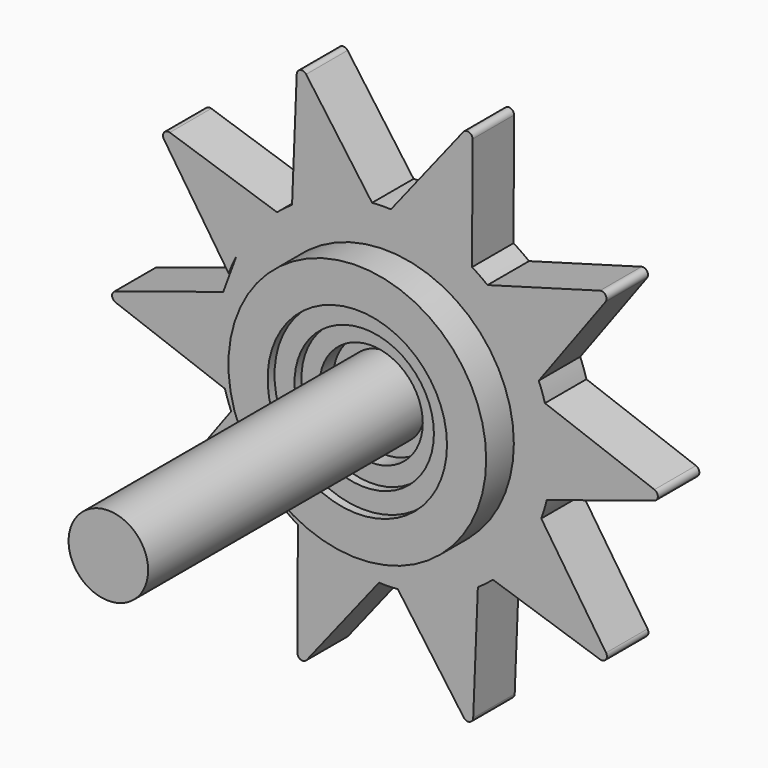
from build123d import *

# Parameters (mm, degrees)
F0_R      = 9.467987
F1_DEPTH  = 3.81
F2_R      = 2.921246
F3_DEPTH  = 25.4
F4_R      = 3.289061
F5_DEPTH  = 6.35
F6_R      = 0.381
F0_R_2    = 6.588266
F7_DEPTH  = 2.54
F0_R_3    = 5.118567
F8_DEPTH  = 1.905
F0_R_4    = 3.793635
F9_DEPTH  = 1.27
F0_R_5    = 2.785674
F10_DEPTH = 4.2926
F11_R     = 2.39152


with BuildPart() as f1:
    # F0 (on Front) → F1 (new body)
    with BuildSketch(Plane.XZ):
        with BuildLine():
            ThreePointArc((11.753054, 3.356683), (12.10494, 1.69471), (12.222995, 0))
            ThreePointArc((12.222995, 0), (12.137491, -1.443232), (11.882175, -2.866272))
            Line((11.882175, -2.866272), (20.8341, 0))
            Line((20.8341, 0), (11.753054, 3.356683))
        make_face()
        with BuildLine():
            ThreePointArc((7.535412, 9.623886), (9.737443, 7.388086), (11.297634, 4.665305))
            Line((11.297634, 4.665305), (16.855141, 12.245976))
            Line((16.855141, 12.245976), (7.535412, 9.623886))
        make_face()
        with BuildLine():
            ThreePointArc((-6.824289, 10.140547), (-4.017452, 11.543903), (-0.945807, 12.186347))
            Line((-0.945807, 12.186347), (-6.438091, 19.814406))
            Line((-6.438091, 19.814406), (-6.824289, 10.140547))
        make_face()
        with BuildLine():
            ThreePointArc((0.439498, 12.215091), (3.535148, 11.700613), (6.397781, 10.414894))
            Line((6.397781, 10.414894), (6.438091, 19.814406))
            Line((6.438091, 19.814406), (0.439498, 12.215091))
        make_face()
        with BuildLine():
            ThreePointArc((-10.889778, 5.551066), (-9.59415, 7.573235), (-7.928129, 9.30303))
            Line((-7.928129, 9.30303), (-16.855141, 12.245976))
            Line((-16.855141, 12.245976), (-11.481429, 4.192659))
            ThreePointArc((-11.481429, 4.192659), (-11.206206, 4.880835), (-10.889778, 5.551066))
        make_face()
        with BuildLine():
            ThreePointArc((-11.753054, -3.356683), (-12.220365, -0.253562), (-11.882175, 2.866272))
            Line((-11.882175, 2.866272), (-20.8341, 0))
            Line((-20.8341, 0), (-11.753054, -3.356683))
        make_face()
        with BuildLine():
            Line((-16.855141, -12.245976), (-7.535412, -9.623886))
            ThreePointArc((-7.535412, -9.623886), (-9.737443, -7.388086), (-11.297634, -4.665305))
            Line((-11.297634, -4.665305), (-16.855141, -12.245976))
        make_face()
        with BuildLine():
            Line((-6.438091, -19.814406), (-0.439498, -12.215091))
            ThreePointArc((-0.439498, -12.215091), (-3.535148, -11.700613), (-6.397781, -10.414894))
            Line((-6.397781, -10.414894), (-6.438091, -19.814406))
        make_face()
        with BuildLine():
            Line((6.438091, -19.814406), (6.824289, -10.140547))
            ThreePointArc((6.824289, -10.140547), (4.017452, -11.543903), (0.945807, -12.186347))
            Line((0.945807, -12.186347), (6.438091, -19.814406))
        make_face()
        with BuildLine():
            Line((16.855141, -12.245976), (11.481429, -4.192659))
            ThreePointArc((11.481429, -4.192659), (10.035523, -6.977814), (7.928129, -9.30303))
            Line((7.928129, -9.30303), (16.855141, -12.245976))
        make_face()
        with BuildLine():
            ThreePointArc((11.882175, -2.866272), (12.137491, -1.443232), (12.222995, 0))
            ThreePointArc((12.222995, 0), (12.10494, 1.69471), (11.753054, 3.356683))
            ThreePointArc((11.753054, 3.356683), (11.543903, 4.017452), (11.297634, 4.665305))
            ThreePointArc((11.297634, 4.665305), (9.737443, 7.388086), (7.535412, 9.623886))
            ThreePointArc((7.535412, 9.623886), (6.977814, 10.035523), (6.397781, 10.414894))
            ThreePointArc((6.397781, 10.414894), (3.535148, 11.700613), (0.439498, 12.215091))
            ThreePointArc((0.439498, 12.215091), (-0.253562, 12.220365), (-0.945807, 12.186347))
            ThreePointArc((-0.945807, 12.186347), (-4.017452, 11.543903), (-6.824289, 10.140547))
            ThreePointArc((-6.824289, 10.140547), (-7.388086, 9.737443), (-7.928129, 9.30303))
            ThreePointArc((-7.928129, 9.30303), (-9.59415, 7.573235), (-10.889778, 5.551066))
            Line((-10.889778, 5.551066), (-11.882175, 2.866272))
            ThreePointArc((-11.882175, 2.866272), (-12.220365, -0.253562), (-11.753054, -3.356683))
            ThreePointArc((-11.753054, -3.356683), (-11.543903, -4.017452), (-11.297634, -4.665305))
            ThreePointArc((-11.297634, -4.665305), (-9.737443, -7.388086), (-7.535412, -9.623886))
            ThreePointArc((-7.535412, -9.623886), (-6.977814, -10.035523), (-6.397781, -10.414894))
            ThreePointArc((-6.397781, -10.414894), (-3.535148, -11.700613), (-0.439498, -12.215091))
            ThreePointArc((-0.439498, -12.215091), (0.253562, -12.220365), (0.945807, -12.186347))
            ThreePointArc((0.945807, -12.186347), (4.017452, -11.543903), (6.824289, -10.140547))
            ThreePointArc((6.824289, -10.140547), (7.388086, -9.737443), (7.928129, -9.30303))
            ThreePointArc((7.928129, -9.30303), (10.035523, -6.977814), (11.481429, -4.192659))
            ThreePointArc((11.481429, -4.192659), (11.700613, -3.535148), (11.882175, -2.866272))
        make_face()
        Circle(F0_R, mode=Mode.SUBTRACT)
    extrude(amount=-F1_DEPTH)

    # F6
    f6_edges = [f1.edges().sort_by_distance(p)[0] for p in [
        (-20.8341, 1.905, 0),
        (-16.855141, 1.905, -12.245976),
        (-6.438091, 1.905, -19.814406),
        (6.438091, 1.905, -19.814406),
        (16.855141, 1.905, -12.245976),
        (20.8341, 1.905, 0),
        (16.855141, 1.905, 12.245976),
        (6.438091, 1.905, 19.814406),
        (-6.438091, 1.905, 19.814406),
        (-16.855141, 1.905, 12.245976),
    ]]
    fillet(f6_edges, radius=F6_R)


with BuildPart() as f3:
    # F2 (on face) → F3 (new body)
    with BuildSketch(Plane.XZ):
        Circle(F2_R)
    extrude(amount=F3_DEPTH)


with BuildPart() as f5:
    # F4 (on face) → F5 (new body)
    with BuildSketch(Plane(origin=(0, 3.81, 0), x_dir=(-1, 0, 0), z_dir=(0, 1, 0))):
        Circle(F4_R)
    extrude(amount=F5_DEPTH)

    # F11
    f11_edges = [f5.edges().sort_by_distance(p)[0] for p in [
        (3.289061, 10.16, 0),
    ]]
    fillet(f11_edges, radius=F11_R)


with BuildPart() as f7:
    # F0 (on Front) → F7 (new body)
    with BuildSketch(Plane.XZ):
        Circle(F0_R)
        Circle(F0_R_2, mode=Mode.SUBTRACT)
    extrude(amount=F7_DEPTH)

    # F0 (on Front) → F8 (join)
    with BuildSketch(Plane.XZ):
        Circle(F0_R_2)
        Circle(F0_R_3, mode=Mode.SUBTRACT)
    extrude(amount=F8_DEPTH)

    # F0 (on Front) → F9 (join)
    with BuildSketch(Plane.XZ):
        Circle(F0_R_3)
        Circle(F0_R_4, mode=Mode.SUBTRACT)
    extrude(amount=F9_DEPTH)


with BuildPart() as f10:
    # F0 (on Front) → F10 (new body)
    with BuildSketch(Plane.XZ):
        Circle(F0_R_4)
        Circle(F0_R_5, mode=Mode.SUBTRACT)
    extrude(amount=-F10_DEPTH)


solid = Compound([f1.part, f3.part, f5.part, f7.part, f10.part])
